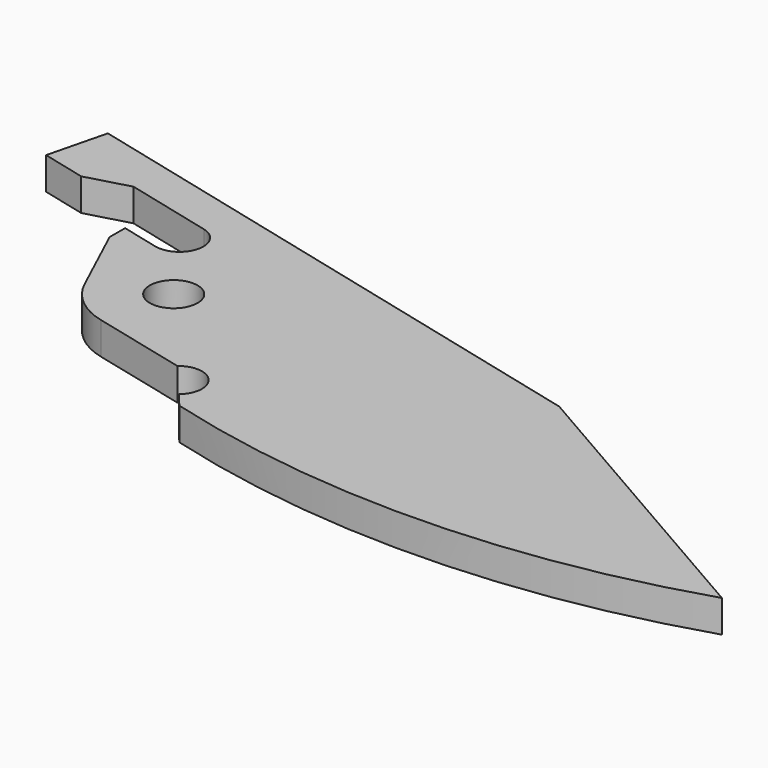
from build123d import *

# Parameters (mm, degrees)
F0_R     = 2.3495
F1_DEPTH = 3.175


with BuildPart() as f1:
    # F0 (on Top) → F1 (new body)
    with BuildSketch(Plane.XY):
        with BuildLine():
            ThreePointArc((-59.001402, 9.904961), (-55.691351, 9.61537), (-55.980943, 6.305319))
            Line((-55.980943, 6.305319), (-54.756432, 4.846004))
            ThreePointArc((-54.756432, 4.846004), (-28.419628, 1.543533), (-2.235876, 5.896084))
            Line((-2.235876, 5.896084), (-31.884213, 22.957395))
            Line((-31.884213, 22.957395), (-87.336613, 36.783231))
            Line((-87.336613, 36.783231), (-88.780645, 30.991536))
            Line((-88.780645, 30.991536), (-84.467681, 29.916193))
            Line((-84.467681, 29.916193), (-80.248545, 31.089339))
            Line((-80.248545, 31.089339), (-71.622616, 28.938654))
            ThreePointArc((-71.622616, 28.938654), (-69.911301, 26.090548), (-72.759407, 24.379234))
            Line((-72.759407, 24.379234), (-76.456233, 25.300956))
            Line((-76.456233, 25.300956), (-76.456233, 23.395956))
            Line((-76.456233, 23.395956), (-73.070616, 16.087324))
            ThreePointArc((-73.070616, 16.087324), (-71.156382, 13.609543), (-68.357831, 12.205335))
            Line((-68.357831, 12.205335), (-59.001402, 9.904961))
        make_face()
        with Locations((-66.675, 19.05)):
            Circle(F0_R, mode=Mode.SUBTRACT)
    extrude(amount=F1_DEPTH)


solid = f1.part
